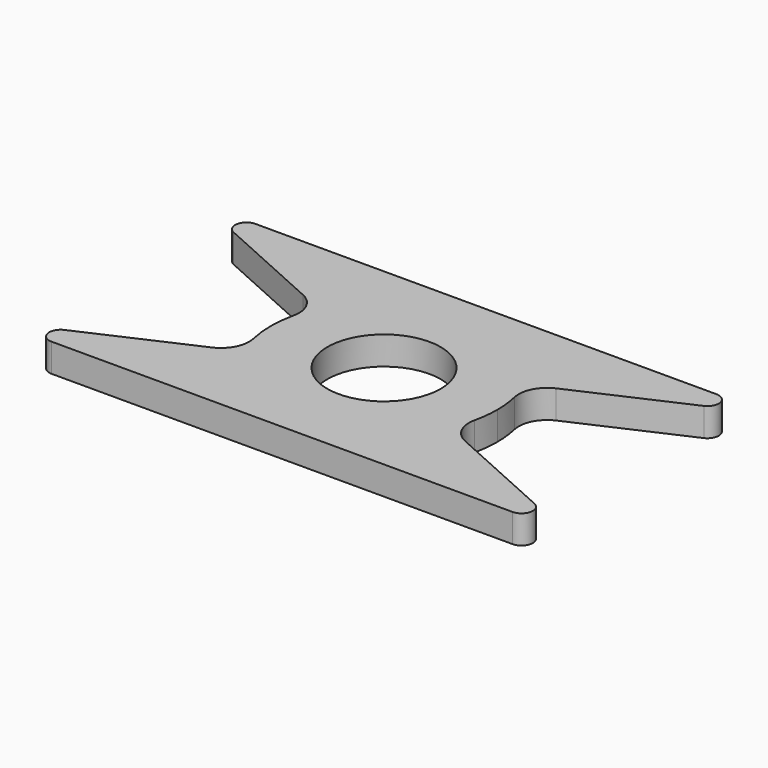
from build123d import *

# Parameters (mm, degrees)
F0_R     = 10
F1_DEPTH = 5
F2_R     = 2
F3_R     = 5


with BuildPart() as f1:
    # F0 (on Top) → F1 (new body)
    with BuildSketch(Plane.XY):
        with BuildLine():
            ThreePointArc((24.792896, 14.940892), (6.554466, 26.733598), (-11.683964, 14.940892))
            ThreePointArc((-11.683964, 14.940892), (-13.445534, 6.733598), (-11.683964, -1.473696))
            ThreePointArc((-11.683964, -1.473696), (6.554466, -13.266402), (24.792896, -1.473696))
            ThreePointArc((24.792896, -1.473696), (26.109115, 2.536492), (26.554466, 6.733598))
            ThreePointArc((26.554466, 6.733598), (26.109115, 10.930704), (24.792896, 14.940892))
        make_face()
        with Locations((6.554466, 6.733598)):
            Circle(F0_R, mode=Mode.SUBTRACT)
        with BuildLine():
            Line((56.554466, 29.233598), (-43.445534, 29.233598))
            Line((-43.445534, 29.233598), (-11.683964, 14.940892))
            ThreePointArc((-11.683964, 14.940892), (6.554466, 26.733598), (24.792896, 14.940892))
            Line((24.792896, 14.940892), (56.554466, 29.233598))
        make_face()
        with BuildLine():
            ThreePointArc((24.792896, -1.473696), (6.554466, -13.266402), (-11.683964, -1.473696))
            Line((-11.683964, -1.473696), (-43.445534, -15.766402))
            Line((-43.445534, -15.766402), (56.554466, -15.766402))
            Line((56.554466, -15.766402), (24.792896, -1.473696))
        make_face()
    extrude(amount=F1_DEPTH)

    # F2
    f2_edges = [f1.edges().sort_by_distance(p)[0] for p in [
        (-43.445534, 29.233598, 2.5),
        (-43.445534, -15.766402, 2.5),
        (56.554466, -15.766402, 2.5),
        (56.554466, 29.233598, 2.5),
    ]]
    fillet(f2_edges, radius=F2_R)

    # F3
    f3_edges = [f1.edges().sort_by_distance(p)[0] for p in [
        (24.792896, 14.940892, 2.5),
        (24.792896, -1.473696, 2.5),
        (-11.683964, -1.473696, 2.5),
        (-11.683964, 14.940892, 2.5),
    ]]
    fillet(f3_edges, radius=F3_R)


solid = f1.part
